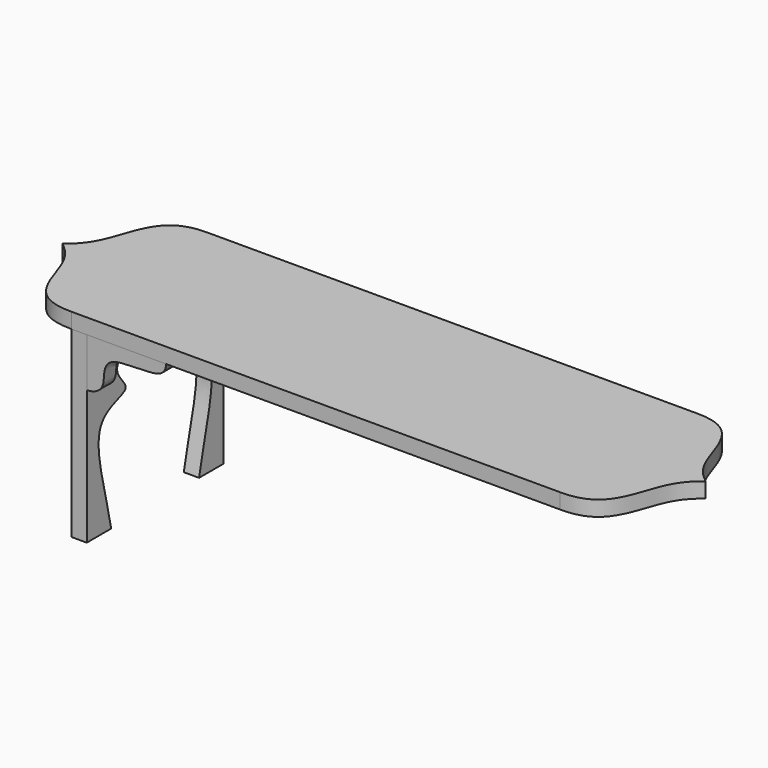
from build123d import *

# Parameters (mm, degrees)
F0_W     = 800
F0_H     = 280
F3_DEPTH = 25
F4_DEPTH = 25
F6_DEPTH = 25


with BuildPart() as f3:
    # F0 (on Top) → F3 (new body)
    with BuildSketch(Plane.XY):
        with BuildLine():
            add(Edge.make_bspline(
                [(-537.303840369, -49.4900339842), (-579.8237086489, -50.1027958958), (-609.6719073908, -16.522082834), (-624.9544376815, 36.8734544523), (-640.3220891953, 72.548866272), (-664.4766926765, 90.5099660158)],
                knots=[0, 0, 0, 0, 0.3663506071, 0.6597682426, 1, 1, 1, 1], degree=3))
            Line((-537.303840369, -49.4900339842), (-537.303840369, 230.5099660158))
            add(Edge.make_bspline(
                [(-537.303840369, 230.5099660158), (-579.8237086489, 231.1227279275), (-609.6719073908, 197.5420148656), (-624.9544376815, 144.1464775793), (-640.3220891953, 108.4710657597), (-664.4766926765, 90.5099660158)],
                knots=[0, 0, 0, 0, 0.3663506071, 0.6597682426, 1, 1, 1, 1], degree=3))
        make_face()
        with Locations((-137.303840369, 90.5099660158)):
            Rectangle(F0_W, F0_H)
        with BuildLine():
            Line((262.696159631, 230.5099660158), (262.696159631, -49.4900339842))
            add(Edge.make_bspline(
                [(262.696159631, -49.4900339842), (305.216027911, -50.1027958958), (335.0642266528, -16.522082834), (350.3467569436, 36.8734544523), (365.7144084573, 72.548866272), (389.8690119386, 90.5099660158)],
                knots=[0, 0, 0, 0, 0.3663506071, 0.6597682426, 1, 1, 1, 1], degree=3))
            add(Edge.make_bspline(
                [(262.696159631, 230.5099660158), (305.216027911, 231.1227279275), (335.0642266528, 197.5420148656), (350.3467569436, 144.1464775793), (365.7144084573, 108.4710657597), (389.8690119386, 90.5099660158)],
                knots=[0, 0, 0, 0, 0.3663506071, 0.6597682426, 1, 1, 1, 1], degree=3))
        make_face()
    extrude(amount=F3_DEPTH)


with BuildPart() as f4:
    # F2 (on plane+point) → F4 (new body)
    with BuildSketch(Plane.YZ.offset(-537.303840369)):
        with BuildLine():
            Line((230.5099660158, -300), (230.5099660158, 0))
            Line((230.5099660158, 0), (-49.4900339842, 0))
            Line((-49.4900339842, 0), (-49.4900339842, -300))
            Line((-49.4900339842, -300), (0.5099660158, -300))
            add(Edge.make_bspline(
                [(0.5099660158, -300), (-11.936796864, -235.0211868442), (-51.4268977409, -131.012674632), (27.1782230132, -117.6112629536), (33.5489318103, -103.3366036281), (-8.957260291, -69.2195325533), (46.5764747456, -36.770094018), (90.5099660158, -36.6349332035)],
                knots=[0, 0, 0, 0, 0.3327719638, 0.5209657604, 0.6028276022, 0.7557421537, 1, 1, 1, 1], degree=3))
            add(Edge.make_bspline(
                [(180.5099660158, -300), (192.9567288956, -235.0211868442), (232.4468297725, -131.012674632), (153.8417090184, -117.6112629536), (147.4710002213, -103.3366036281), (189.9771923226, -69.2195325533), (134.443457286, -36.770094018), (90.5099660158, -36.6349332035)],
                knots=[0, 0, 0, 0, 0.3327719638, 0.5209657604, 0.6028276022, 0.7557421537, 1, 1, 1, 1], degree=3))
            Line((180.5099660158, -300), (230.5099660158, -300))
        make_face()
    extrude(amount=F4_DEPTH)


with BuildPart() as f6:
    # F5 (on face) → F6 (new body)
    with BuildSketch(Plane.XZ.offset(49.4900339842)):
        with BuildLine():
            add(Edge.make_bspline(
                [(-512.303840369, -80), (-498.2817289761, -79.6210311629), (-482.7649829726, -68.2648291492), (-485.4320171379, -42.2525797623), (-472.7313877784, -18.0340160913), (-405.5308137942, -24.3615889417), (-382.9815961956, -14.855474635), (-382.303840369, 0)],
                knots=[0, 0, 0, 0, 0.1899446525, 0.3589877103, 0.522290711, 0.803499517, 1, 1, 1, 1], degree=3))
            Line((-382.303840369, 0), (-512.303840369, 0))
            Line((-512.303840369, 0), (-512.303840369, -80))
        make_face()
    extrude(amount=-F6_DEPTH)


solid = Compound([f3.part, f4.part, f6.part])
